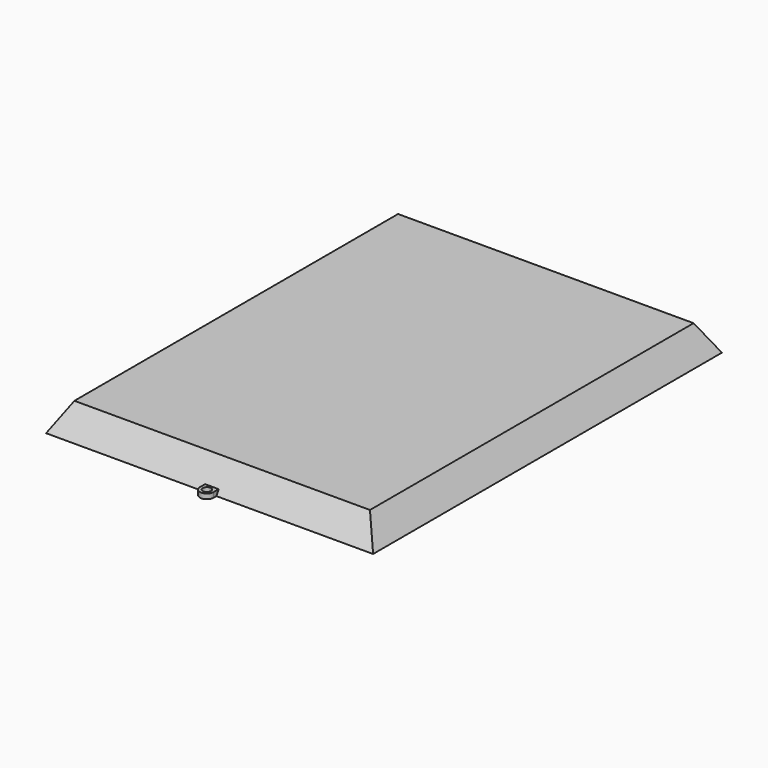
from build123d import *

# Parameters (mm, degrees)
F0_W     = 152.4
F0_H     = 203.2
F1_DEPTH = 12.7
F1_TAPER = 30
F2_W     = 6.35
F2_H     = 1.5690360503
F3_DEPTH = 2.3114
F4_R     = 1.905
F5_DEPTH = 25.4


with BuildPart() as f1:
    # F0 (on Top) → F1 (new body)
    with BuildSketch(Plane.XY):
        Rectangle(F0_W, F0_H)
    extrude(amount=F1_DEPTH, taper=F1_TAPER)

    # F2 (on face) → F3 (join)
    with BuildSketch(Plane(origin=(0, 0, 0), x_dir=(1, 0, 0), z_dir=(0, 0, -1))):
        with BuildLine():
            Line((-3.175, 101.6), (3.175, 101.6))
            Line((3.175, 101.6), (3.175, 103.2059639497))
            ThreePointArc((3.175, 103.2059639497), (1.125e-07, 106.3809639692), (-3.175, 103.2059641746))
            Line((-3.175, 103.2059641746), (-3.175, 101.6))
        make_face()
        with Locations((0, 100.8154819748)):
            Rectangle(F2_W, F2_H)
    extrude(amount=-F3_DEPTH)

    # F4 (on face) → F5 (cut)
    with BuildSketch(Plane.XY.offset(2.3114)):
        with Locations((0, -103.2059639692)):
            Circle(F4_R)
    extrude(amount=-F5_DEPTH, mode=Mode.SUBTRACT)


solid = f1.part
